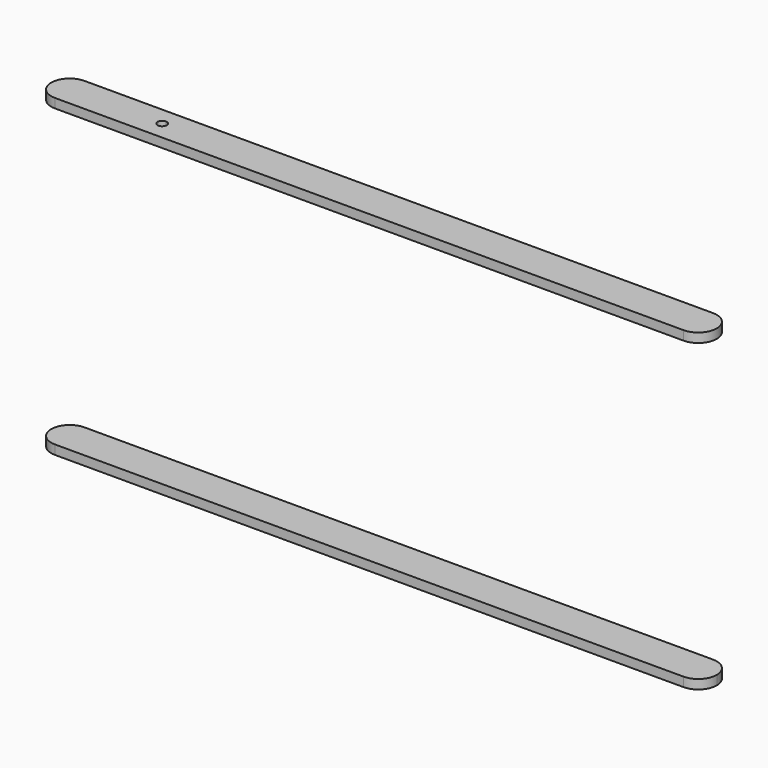
from build123d import *

# Parameters (mm, degrees)
F1_DEPTH = 1.5875
F4_DEPTH = 1.5875


with BuildPart() as f1:
    # F0 (on Top) → F1 (new body)
    with BuildSketch(Plane.XY):
        with BuildLine():
            ThreePointArc((-11.5190159917, 19.5445679128), (-10.589080022, 17.2995038825), (-8.3440159917, 16.3695679128))
            Line((-8.3440159917, 16.3695679128), (99.6059840083, 16.3695679128))
            ThreePointArc((99.6059840083, 16.3695679128), (101.8510480386, 17.2995038825), (102.7809840083, 19.5445679128))
            ThreePointArc((102.7809840083, 19.5445679128), (101.8510480386, 21.7896319431), (99.6059840083, 22.7195679128))
            Line((99.6059840083, 22.7195679128), (-8.3440159917, 22.7195679128))
            ThreePointArc((-8.3440159917, 22.7195679128), (-10.589080022, 21.7896319431), (-11.5190159917, 19.5445679128))
        make_face()
    extrude(amount=F1_DEPTH)


with BuildPart() as f4:
    # F3 (on offset) → F4 (new body)
    with BuildSketch(Plane.XY.offset(52.3875)):
        with BuildLine():
            Line((7.5309840083, 22.7195679128), (-8.3440159917, 22.7195679128))
            ThreePointArc((-8.3440159917, 22.7195679128), (-11.5190159917, 19.5445679128), (-8.3440159917, 16.3695679128))
            Line((-8.3440159917, 16.3695679128), (7.5309840083, 16.3695679128))
            Line((7.5309840083, 16.3695679128), (7.5309840083, 18.7508179128))
            ThreePointArc((7.5309840083, 18.7508179128), (6.7372340083, 19.5445679128), (7.5309840083, 20.3383179128))
            Line((7.5309840083, 20.3383179128), (7.5309840083, 22.7195679128))
        make_face()
        with BuildLine():
            Line((99.6059840083, 22.7195679128), (7.5309840083, 22.7195679128))
            Line((7.5309840083, 22.7195679128), (7.5309840083, 20.3383179128))
            ThreePointArc((7.5309840083, 20.3383179128), (8.0922500159, 20.1058339204), (8.3247340083, 19.5445679128))
            ThreePointArc((8.3247340083, 19.5445679128), (8.0922500159, 18.9833019053), (7.5309840083, 18.7508179128))
            Line((7.5309840083, 18.7508179128), (7.5309840083, 16.3695679128))
            Line((7.5309840083, 16.3695679128), (99.6059840083, 16.3695679128))
            ThreePointArc((99.6059840083, 16.3695679128), (102.7809840083, 19.5445679128), (99.6059840083, 22.7195679128))
        make_face()
    extrude(amount=F4_DEPTH)


solid = Compound([f1.part, f4.part])
